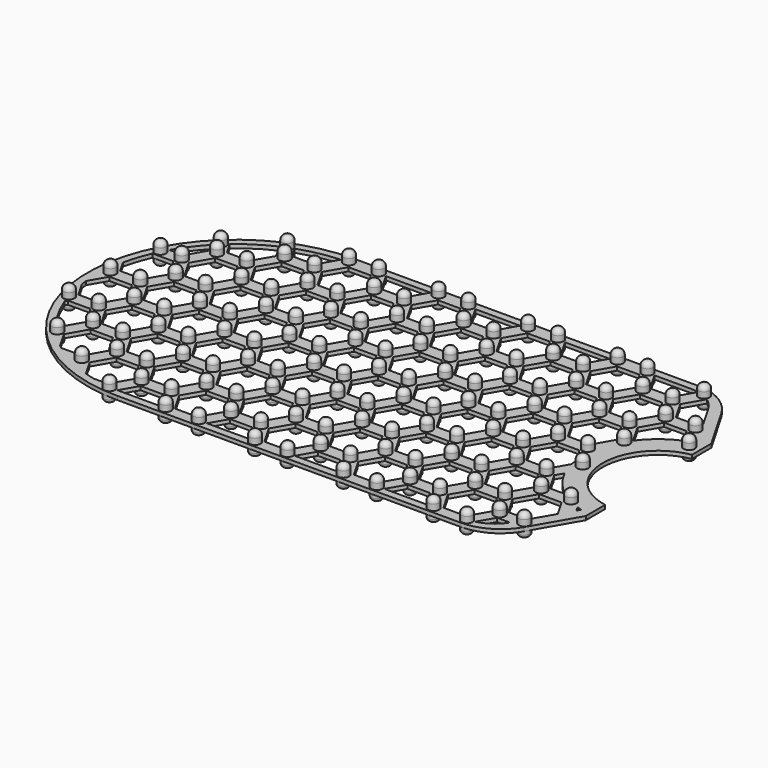
from build123d import *

# Parameters (mm, degrees)
PAD_DEPTH         = 1
SKETCH001_R       = 1.5
PAD001_DEPTH      = 3
PAD001_DEPTH_BACK = 3
FILLET_R          = 1.4
FILLET001_R       = 0.99


with BuildPart() as part:
    # Sketch → Pad (new body)
    with BuildSketch(Plane.XY):
        with BuildLine():
            ThreePointArc((0, 39.75), (-39.75, 0), (0, -39.75))
            Line((0, -39.75), (92, -39.75))
            ThreePointArc((92, -39.75), (98.745759, -37.94379), (103.686443, -33.008479))
            Line((103.686443, -33.008479), (110.61, -21.036592))
            Line((110.61, -14.536592), (110.61, -21.036592))
            ThreePointArc((110.61, 14.536592), (98.36, 0), (110.61, -14.536592))
            Line((110.61, 14.536592), (110.61, 21.036592))
            Line((110.61, 21.036592), (103.686443, 33.008479))
            ThreePointArc((103.686443, 33.008479), (98.745759, 37.94379), (92, 39.75))
            Line((0, 39.75), (92, 39.75))
        make_face()
        Polygon((10.359334, 30.823848), (7.359334, 36.02), (1.359334, 36.02), (-1.640666, 30.823848), (1.359334, 25.627695), (7.359334, 25.627695), align=None, mode=Mode.SUBTRACT)
        Polygon((12.993336, 32.55), (18.993336, 32.55), (21.995557, 37.75), (9.991114, 37.75), align=None, mode=Mode.SUBTRACT)
        Polygon((36.997779, 32.55), (42.997779, 32.55), (46, 37.75), (33.995557, 37.75), align=None, mode=Mode.SUBTRACT)
        Polygon((61.002221, 32.55), (67.002221, 32.55), (70.004443, 37.75), (58, 37.75), align=None, mode=Mode.SUBTRACT)
        with BuildLine():
            Line((85.006664, 32.55), (91.006664, 32.55))
            Line((91.006664, 32.55), (93.898219, 37.558321))
            ThreePointArc((93.898219, 37.558321), (92.953929, 37.701883), (92, 37.75))
            Line((82.004443, 37.75), (92, 37.75))
            Line((85.006664, 32.55), (82.004443, 37.75))
        make_face(mode=Mode.SUBTRACT)
        with BuildLine():
            Line((94.359334, 30.896734), (97.359334, 25.700581))
            Line((97.359334, 25.700581), (103.359334, 25.700581))
            Line((103.359334, 25.700581), (103.902076, 26.640637))
            Line((103.902076, 26.640637), (100.219438, 33.008479))
            ThreePointArc((100.219438, 33.008479), (98.962058, 34.710798), (97.359334, 36.092886))
            Line((94.359334, 30.896734), (97.359334, 36.092886))
        make_face(mode=Mode.SUBTRACT)
        with BuildLine():
            Line((-22.640666, 25.292987), (-16.640666, 25.292987))
            Line((-16.640666, 25.292987), (-13.640666, 30.489139))
            Line((-13.640666, 30.489139), (-15.825176, 34.272822))
            ThreePointArc((-15.825176, 34.272822), (-20.396999, 31.765152), (-24.579652, 28.651409))
            Line((-22.640666, 25.292987), (-24.579652, 28.651409))
        make_face(mode=Mode.SUBTRACT)
        with BuildLine():
            Line((-26, 23.882987), (-29, 18.686834))
            Line((-29, 18.686834), (-32.800377, 18.686834))
            ThreePointArc((-27.27761, 26.095872), (-30.266559, 22.560982), (-32.800377, 18.686834))
            Line((-26, 23.882987), (-27.27761, 26.095872))
        make_face(mode=Mode.SUBTRACT)
        with BuildLine():
            Line((-34.912274, 4.83453), (-28.912274, 4.83453))
            Line((-28.912274, 4.83453), (-25.912274, 10.030682))
            Line((-25.912274, 10.030682), (-28.912274, 15.226834))
            Line((-28.912274, 15.226834), (-34.542814, 15.226834))
            ThreePointArc((-34.542814, 15.226834), (-35.869554, 11.765951), (-36.850502, 8.19164))
            Line((-34.912274, 4.83453), (-36.850502, 8.19164))
        make_face(mode=Mode.SUBTRACT)
        with BuildLine():
            Line((-34.997756, 1.37453), (-28.997756, 1.37453))
            Line((-28.997756, 1.37453), (-25.997756, -3.821623))
            Line((-25.997756, -3.821623), (-28.997756, -9.017775))
            Line((-28.997756, -9.017775), (-34.997756, -9.017775))
            Line((-34.997756, -9.017775), (-37.446635, -4.776193))
            ThreePointArc((-37.617287, -3.16263), (-37.540631, -3.970328), (-37.446635, -4.776193))
            Line((-34.997756, 1.37453), (-37.617287, -3.16263))
        make_face(mode=Mode.SUBTRACT)
        with BuildLine():
            Line((-35.018401, -12.477775), (-29.018401, -12.477775))
            Line((-29.018401, -12.477775), (-26.018401, -17.673928))
            Line((-26.018401, -17.673928), (-29.018401, -22.87008))
            Line((-29.018401, -22.87008), (-30.03368, -22.87008))
            ThreePointArc((-35.393778, -13.127947), (-33.074391, -18.197449), (-30.03368, -22.87008))
            Line((-35.018401, -12.477775), (-35.393778, -13.127947))
        make_face(mode=Mode.SUBTRACT)
        with BuildLine():
            Line((-23.18947, -19.723928), (-17.18947, -19.723928))
            Line((-17.18947, -19.723928), (-14.18947, -24.92008))
            Line((-14.18947, -24.92008), (-17.18947, -30.116233))
            Line((-17.18947, -30.116233), (-22.761262, -30.116233))
            ThreePointArc((-23.537387, -29.513623), (-23.151285, -29.817453), (-22.761262, -30.116233))
            Line((-26.18947, -24.92008), (-23.537387, -29.513623))
            Line((-23.18947, -19.723928), (-26.18947, -24.92008))
        make_face(mode=Mode.SUBTRACT)
        with BuildLine():
            Line((-11.000012, -26.33379), (-5.000012, -26.33379))
            Line((-5.000012, -26.33379), (-2.000012, -31.529942))
            Line((-2.000012, -31.529942), (-5.000012, -36.726095))
            Line((-5.000012, -36.726095), (-8.732495, -36.726095))
            ThreePointArc((-11.432347, -35.97727), (-10.08937, -36.376739), (-8.732495, -36.726095))
            Line((-14.000012, -31.529942), (-11.432347, -35.97727))
            Line((-11.000012, -26.33379), (-14.000012, -31.529942))
        make_face(mode=Mode.SUBTRACT)
        Polygon((57.997325, 16.971543), (54.997325, 22.167695), (48.997325, 22.167695), (45.997325, 16.971543), (48.997325, 11.77539), (54.997325, 11.77539), align=None, mode=Mode.SUBTRACT)
        Polygon((46, 23.893848), (43, 29.09), (37, 29.09), (34, 23.893848), (37, 18.697695), (43, 18.697695), align=None, mode=Mode.SUBTRACT)
        Polygon((70, 23.893848), (67, 29.09), (61, 29.09), (58, 23.893848), (61, 18.697695), (67, 18.697695), align=None, mode=Mode.SUBTRACT)
        Polygon((82.359334, 30.823848), (79.359334, 36.02), (73.359334, 36.02), (70.359334, 30.823848), (73.359334, 25.627695), (79.359334, 25.627695), align=None, mode=Mode.SUBTRACT)
        Polygon((94, 23.893848), (91, 29.09), (85, 29.09), (82, 23.893848), (85, 18.697695), (91, 18.697695), align=None, mode=Mode.SUBTRACT)
        Polygon((58.359334, 30.823848), (55.359334, 36.02), (49.359334, 36.02), (46.359334, 30.823848), (49.359334, 25.627695), (55.359334, 25.627695), align=None, mode=Mode.SUBTRACT)
        Polygon((34.359334, 30.823848), (31.359334, 36.02), (25.359334, 36.02), (22.359334, 30.823848), (25.359334, 25.627695), (31.359334, 25.627695), align=None, mode=Mode.SUBTRACT)
        Polygon((22, 23.893848), (19, 29.09), (13, 29.09), (10, 23.893848), (13, 18.697695), (19, 18.697695), align=None, mode=Mode.SUBTRACT)
        Polygon((9.997325, 16.971543), (6.997325, 22.167695), (0.997325, 22.167695), (-2.002675, 16.971543), (0.997325, 11.77539), (6.997325, 11.77539), align=None, mode=Mode.SUBTRACT)
        Polygon((-2, 23.879277), (-5, 29.075429), (-11, 29.075429), (-14, 23.879277), (-11, 18.683125), (-5, 18.683125), align=None, mode=Mode.SUBTRACT)
        Polygon((-14.002675, 16.636834), (-17.002675, 21.832987), (-23.002675, 21.832987), (-26.002675, 16.636834), (-23.002675, 11.440682), (-17.002675, 11.440682), align=None, mode=Mode.SUBTRACT)
        Polygon((-1.912274, 10.026972), (-4.912274, 15.223125), (-10.912274, 15.223125), (-13.912274, 10.026972), (-10.912274, 4.83082), (-4.912274, 4.83082), align=None, mode=Mode.SUBTRACT)
        Polygon((-14, 2.78453), (-17, 7.980682), (-23, 7.980682), (-26, 2.78453), (-23, -2.411623), (-17, -2.411623), align=None, mode=Mode.SUBTRACT)
        Polygon((-14.112851, -11.067775), (-17.112851, -5.871623), (-23.112851, -5.871623), (-26.112851, -11.067775), (-23.112851, -16.263928), (-17.112851, -16.263928), align=None, mode=Mode.SUBTRACT)
        Polygon((-1.997756, -3.825333), (-4.997756, 1.37082), (-10.997756, 1.37082), (-13.997756, -3.825333), (-10.997756, -9.021485), (-4.997756, -9.021485), align=None, mode=Mode.SUBTRACT)
        Polygon((-2.018401, -17.677638), (-5.018401, -12.481485), (-11.018401, -12.481485), (-14.018401, -17.677638), (-11.018401, -22.87379), (-5.018401, -22.87379), align=None, mode=Mode.SUBTRACT)
        Polygon((9.81053, -24.585372), (6.81053, -19.389219), (0.81053, -19.389219), (-2.18947, -24.585372), (0.81053, -29.781524), (6.81053, -29.781524), align=None, mode=Mode.SUBTRACT)
        with BuildLine():
            Line((7.018852, -33.241524), (1.018852, -33.241524))
            Line((1.018852, -33.241524), (-1.565371, -37.717531))
            ThreePointArc((-1.565371, -37.717531), (-0.782854, -37.741882), (0, -37.75))
            Line((9.621822, -37.75), (0, -37.75))
            Line((7.018852, -33.241524), (9.621822, -37.75))
        make_face(mode=Mode.SUBTRACT)
        Polygon((10, 3.119238), (7, 8.31539), (1, 8.31539), (-2, 3.119238), (1, -2.076915), (7, -2.076915), align=None, mode=Mode.SUBTRACT)
        Polygon((22.087726, 10.041543), (19.087726, 15.237695), (13.087726, 15.237695), (10.087726, 10.041543), (13.087726, 4.84539), (19.087726, 4.84539), align=None, mode=Mode.SUBTRACT)
        Polygon((33.997325, 16.971543), (30.997325, 22.167695), (24.997325, 22.167695), (21.997325, 16.971543), (24.997325, 11.77539), (30.997325, 11.77539), align=None, mode=Mode.SUBTRACT)
        Polygon((9.887149, -10.733067), (6.887149, -5.536915), (0.887149, -5.536915), (-2.112851, -10.733067), (0.887149, -15.929219), (6.887149, -15.929219), align=None, mode=Mode.SUBTRACT)
        Polygon((22.002244, -3.810762), (19.002244, 1.38539), (13.002244, 1.38539), (10.002244, -3.810762), (13.002244, -9.006915), (19.002244, -9.006915), align=None, mode=Mode.SUBTRACT)
        Polygon((21.981599, -17.663067), (18.981599, -12.466915), (12.981599, -12.466915), (9.981599, -17.663067), (12.981599, -22.859219), (18.981599, -22.859219), align=None, mode=Mode.SUBTRACT)
        Polygon((46.087726, 10.041543), (43.087726, 15.237695), (37.087726, 15.237695), (34.087726, 10.041543), (37.087726, 4.84539), (43.087726, 4.84539), align=None, mode=Mode.SUBTRACT)
        Polygon((34, 3.119238), (31, 8.31539), (25, 8.31539), (22, 3.119238), (25, -2.076915), (31, -2.076915), align=None, mode=Mode.SUBTRACT)
        with BuildLine():
            ThreePointArc((-2, 37.696983), (-7.436746, 37.010232), (-12.71678, 35.543579))
            Line((-10.980024, 32.535429), (-12.71678, 35.543579))
            Line((-10.980024, 32.535429), (-4.980024, 32.535429))
            Line((-4.980024, 32.535429), (-2, 37.696983))
        make_face(mode=Mode.SUBTRACT)
        Polygon((45.981599, -17.663067), (42.981599, -12.466915), (36.981599, -12.466915), (33.981599, -17.663067), (36.981599, -22.859219), (42.981599, -22.859219), align=None, mode=Mode.SUBTRACT)
        Polygon((46.002244, -3.810762), (43.002244, 1.38539), (37.002244, 1.38539), (34.002244, -3.810762), (37.002244, -9.006915), (43.002244, -9.006915), align=None, mode=Mode.SUBTRACT)
        Polygon((33.887149, -10.733067), (30.887149, -5.536915), (24.887149, -5.536915), (21.887149, -10.733067), (24.887149, -15.929219), (30.887149, -15.929219), align=None, mode=Mode.SUBTRACT)
        Polygon((33.81053, -24.585372), (30.81053, -19.389219), (24.81053, -19.389219), (21.81053, -24.585372), (24.81053, -29.781524), (30.81053, -29.781524), align=None, mode=Mode.SUBTRACT)
        Polygon((21.999988, -31.515372), (18.999988, -26.319219), (12.999988, -26.319219), (9.999988, -31.515372), (12.999988, -36.711524), (18.999988, -36.711524), align=None, mode=Mode.SUBTRACT)
        Polygon((45.999988, -31.515372), (42.999988, -26.319219), (36.999988, -26.319219), (33.999988, -31.515372), (36.999988, -36.711524), (42.999988, -36.711524), align=None, mode=Mode.SUBTRACT)
        Polygon((25.018852, -33.241524), (31.018852, -33.241524), (33.621822, -37.75), (22.415883, -37.75), align=None, mode=Mode.SUBTRACT)
        Polygon((58, 3.119238), (55, 8.31539), (49, 8.31539), (46, 3.119238), (49, -2.076915), (55, -2.076915), align=None, mode=Mode.SUBTRACT)
        Polygon((57.887149, -10.733067), (54.887149, -5.536915), (48.887149, -5.536915), (45.887149, -10.733067), (48.887149, -15.929219), (54.887149, -15.929219), align=None, mode=Mode.SUBTRACT)
        Polygon((57.81053, -24.585372), (54.81053, -19.389219), (48.81053, -19.389219), (45.81053, -24.585372), (48.81053, -29.781524), (54.81053, -29.781524), align=None, mode=Mode.SUBTRACT)
        Polygon((70.087726, 10.041543), (67.087726, 15.237695), (61.087726, 15.237695), (58.087726, 10.041543), (61.087726, 4.84539), (67.087726, 4.84539), align=None, mode=Mode.SUBTRACT)
        Polygon((70.002244, -3.810762), (67.002244, 1.38539), (61.002244, 1.38539), (58.002244, -3.810762), (61.002244, -9.006915), (67.002244, -9.006915), align=None, mode=Mode.SUBTRACT)
        Polygon((69.981599, -17.663067), (66.981599, -12.466915), (60.981599, -12.466915), (57.981599, -17.663067), (60.981599, -22.859219), (66.981599, -22.859219), align=None, mode=Mode.SUBTRACT)
        Polygon((69.999988, -31.515372), (66.999988, -26.319219), (60.999988, -26.319219), (57.999988, -31.515372), (60.999988, -36.711524), (66.999988, -36.711524), align=None, mode=Mode.SUBTRACT)
        Polygon((81.997325, 16.971543), (78.997325, 22.167695), (72.997325, 22.167695), (69.997325, 16.971543), (72.997325, 11.77539), (78.997325, 11.77539), align=None, mode=Mode.SUBTRACT)
        Polygon((82, 3.119238), (79, 8.31539), (73, 8.31539), (70, 3.119238), (73, -2.076915), (79, -2.076915), align=None, mode=Mode.SUBTRACT)
        Polygon((81.887149, -10.733067), (78.887149, -5.536915), (72.887149, -5.536915), (69.887149, -10.733067), (72.887149, -15.929219), (78.887149, -15.929219), align=None, mode=Mode.SUBTRACT)
        Polygon((81.81053, -24.585372), (78.81053, -19.389219), (72.81053, -19.389219), (69.81053, -24.585372), (72.81053, -29.781524), (78.81053, -29.781524), align=None, mode=Mode.SUBTRACT)
        Polygon((94.087726, 10.041543), (91.087726, 15.237695), (85.087726, 15.237695), (82.087726, 10.041543), (85.087726, 4.84539), (91.087726, 4.84539), align=None, mode=Mode.SUBTRACT)
        Polygon((93.981599, -17.661543), (90.981599, -12.46539), (84.981599, -12.46539), (81.981599, -17.661543), (84.981599, -22.857695), (90.981599, -22.857695), align=None, mode=Mode.SUBTRACT)
        Polygon((93.999988, -31.513848), (90.999988, -26.317695), (84.999988, -26.317695), (81.999988, -31.513848), (84.999988, -36.71), (90.999988, -36.71), align=None, mode=Mode.SUBTRACT)
        Polygon((48.60297, -33.241524), (54.60297, -33.241524), (57.205939, -37.75), (46, -37.75), align=None, mode=Mode.SUBTRACT)
        Polygon((72.60297, -33.241524), (78.60297, -33.241524), (81.205939, -37.75), (70, -37.75), align=None, mode=Mode.SUBTRACT)
        Polygon((96.81053, -19.391543), (102.81053, -19.391543), (105.450231, -23.963639), (102.0843, -29.783848), (96.81053, -29.783848), (93.81053, -24.587695), align=None, mode=Mode.SUBTRACT)
        with BuildLine():
            Line((96.60297, -33.243848), (100.078747, -33.243848))
            ThreePointArc((94.142758, -37.505059), (97.537323, -35.968679), (100.078747, -33.243848))
            Line((96.60297, -33.243848), (94.142758, -37.505059))
        make_face(mode=Mode.SUBTRACT)
        with BuildLine():
            Line((85.002244, 1.38539), (91.002244, 1.38539))
            Line((91.002244, 1.38539), (93.27291, -2.547519))
            ThreePointArc((93.27291, -2.547519), (93.421575, -3.516523), (93.617546, -4.477078))
            Line((91.002244, -9.006915), (93.617546, -4.477078))
            Line((85.002244, -9.006915), (91.002244, -9.006915))
            Line((82.002244, -3.810762), (85.002244, -9.006915))
            Line((85.002244, 1.38539), (82.002244, -3.810762))
        make_face(mode=Mode.SUBTRACT)
        with BuildLine():
            Line((93.997325, 17.044429), (96.997325, 22.240581))
            Line((96.997325, 22.240581), (102.997325, 22.240581))
            Line((102.997325, 22.240581), (105.225958, 18.380475))
            ThreePointArc((105.225958, 18.380475), (100.675047, 15.664353), (96.997322, 11.848275))
            Line((93.997325, 17.044429), (96.997322, 11.848275))
        make_face(mode=Mode.SUBTRACT)
        with BuildLine():
            Line((106.744971, -18.960127), (107.543742, -20.343639))
            Line((107.543742, -20.343639), (108.109786, -19.364862))
            ThreePointArc((106.744971, -18.960127), (107.423776, -19.174641), (108.109786, -19.364862))
        make_face(mode=Mode.SUBTRACT)
        with BuildLine():
            Line((93.887149, -10.735389), (96.887147, -15.931543))
            Line((96.887147, -15.931543), (101.019262, -15.931543))
            ThreePointArc((95.0836, -8.663076), (97.619094, -12.650369), (101.019262, -15.931543))
            Line((93.887149, -10.735389), (95.0836, -8.663076))
        make_face(mode=Mode.SUBTRACT)
    extrude(amount=PAD_DEPTH)

    # Sketch001 (on Face402 of Pad) → Pad001 (join, two sides)
    with BuildSketch(Plane.XY.offset(1)) as pad001_sk:
        with Locations((12.35, 30.88)):
            Circle(SKETCH001_R)
        with Locations((24, 24)):
            Circle(SKETCH001_R)
        with Locations((20.35, 30.88)):
            Circle(SKETCH001_R)
        with Locations((32, 24)):
            Circle(SKETCH001_R)
        with Locations((8, 24)):
            Circle(SKETCH001_R)
        with Locations((0, 24)):
            Circle(SKETCH001_R)
        with Locations((-3.65, 30.88)):
            Circle(SKETCH001_R)
        with Locations((8, 37.9)):
            Circle(SKETCH001_R)
        with Locations((0, 37.9)):
            Circle(SKETCH001_R)
        with Locations((24, 37.9)):
            Circle(SKETCH001_R)
        with Locations((32, 37.9)):
            Circle(SKETCH001_R)
        with Locations((36.35, 30.88)):
            Circle(SKETCH001_R)
        with Locations((19.9, 16.98)):
            Circle(SKETCH001_R)
        with Locations((11.9, 16.98)):
            Circle(SKETCH001_R)
        with Locations((44.35, 30.88)):
            Circle(SKETCH001_R)
        with Locations((48, 37.9)):
            Circle(SKETCH001_R)
        with Locations((56, 37.9)):
            Circle(SKETCH001_R)
        with Locations((48, 24)):
            Circle(SKETCH001_R)
        with Locations((56, 24)):
            Circle(SKETCH001_R)
        with Locations((35.9, 16.98)):
            Circle(SKETCH001_R)
        with Locations((43.9, 16.98)):
            Circle(SKETCH001_R)
        with Locations((48, 10.1)):
            Circle(SKETCH001_R)
        with Locations((56, 10.1)):
            Circle(SKETCH001_R)
        with Locations((59.9, 16.98)):
            Circle(SKETCH001_R)
        with Locations((60.35, 30.88)):
            Circle(SKETCH001_R)
        with Locations((68.35, 30.88)):
            Circle(SKETCH001_R)
        with Locations((72, 37.9)):
            Circle(SKETCH001_R)
        with Locations((72, 24)):
            Circle(SKETCH001_R)
        with Locations((67.9, 16.98)):
            Circle(SKETCH001_R)
        with Locations((72, 10.1)):
            Circle(SKETCH001_R)
        with Locations((32, 10.1)):
            Circle(SKETCH001_R)
        with Locations((24, 10.1)):
            Circle(SKETCH001_R)
        with Locations((80, 37.9)):
            Circle(SKETCH001_R)
        with Locations((84.35, 30.88)):
            Circle(SKETCH001_R)
        with Locations((95.79, 37.13)):
            Circle(SKETCH001_R)
        with Locations((104, 24)):
            Circle(SKETCH001_R)
        with Locations((96, 24)):
            Circle(SKETCH001_R)
        with Locations((80, 24)):
            Circle(SKETCH001_R)
        with Locations((83.9, 16.98)):
            Circle(SKETCH001_R)
        with Locations((91.9, 16.98)):
            Circle(SKETCH001_R)
        with Locations((80, 10.1)):
            Circle(SKETCH001_R)
        with Locations((83.9, 3.08)):
            Circle(SKETCH001_R)
        with Locations((96, 10.1)):
            Circle(SKETCH001_R)
        with Locations((91.9, 3.08)):
            Circle(SKETCH001_R)
        with Locations((107.9, 16.98)):
            Circle(SKETCH001_R)
        with Locations((96, -3.8)):
            Circle(SKETCH001_R)
        with Locations((104, -17.7)):
            Circle(SKETCH001_R)
        with Locations((96, -17.7)):
            Circle(SKETCH001_R)
        with Locations((91.9, -10.82)):
            Circle(SKETCH001_R)
        with Locations((83.9, -10.82)):
            Circle(SKETCH001_R)
        with Locations((80, -3.8)):
            Circle(SKETCH001_R)
        with Locations((72, -3.8)):
            Circle(SKETCH001_R)
        with Locations((67.9, 3.08)):
            Circle(SKETCH001_R)
        with Locations((59.9, 3.08)):
            Circle(SKETCH001_R)
        with Locations((56, -3.8)):
            Circle(SKETCH001_R)
        with Locations((48, -3.8)):
            Circle(SKETCH001_R)
        with Locations((43.9, 3.08)):
            Circle(SKETCH001_R)
        with Locations((35.9, 3.08)):
            Circle(SKETCH001_R)
        with Locations((19.9, 3.08)):
            Circle(SKETCH001_R)
        with Locations((11.9, 3.08)):
            Circle(SKETCH001_R)
        with Locations((8, -3.8)):
            Circle(SKETCH001_R)
        with Locations((11.9, -10.82)):
            Circle(SKETCH001_R)
        with Locations((19.9, -10.82)):
            Circle(SKETCH001_R)
        with Locations((24, -3.8)):
            Circle(SKETCH001_R)
        with Locations((32, -3.8)):
            Circle(SKETCH001_R)
        with Locations((35.9, -10.82)):
            Circle(SKETCH001_R)
        with Locations((43.9, -10.82)):
            Circle(SKETCH001_R)
        with Locations((59.9, -10.82)):
            Circle(SKETCH001_R)
        with Locations((67.9, -10.82)):
            Circle(SKETCH001_R)
        with Locations((72, -17.7)):
            Circle(SKETCH001_R)
        with Locations((80, -17.7)):
            Circle(SKETCH001_R)
        with Locations((56, -17.7)):
            Circle(SKETCH001_R)
        with Locations((48, -17.7)):
            Circle(SKETCH001_R)
        with Locations((32, -17.7)):
            Circle(SKETCH001_R)
        with Locations((24, -17.7)):
            Circle(SKETCH001_R)
        with Locations((8, -17.7)):
            Circle(SKETCH001_R)
        with Locations((11.9, -24.72)):
            Circle(SKETCH001_R)
        with Locations((19.9, -24.72)):
            Circle(SKETCH001_R)
        with Locations((35.9, -24.72)):
            Circle(SKETCH001_R)
        with Locations((43.9, -24.72)):
            Circle(SKETCH001_R)
        with Locations((59.9, -24.72)):
            Circle(SKETCH001_R)
        with Locations((67.9, -24.72)):
            Circle(SKETCH001_R)
        with Locations((83.9, -24.72)):
            Circle(SKETCH001_R)
        with Locations((91.9, -24.72)):
            Circle(SKETCH001_R)
        with Locations((96, -31.6)):
            Circle(SKETCH001_R)
        with Locations((102.6, -31.6)):
            Circle(SKETCH001_R)
        with Locations((80, -31.6)):
            Circle(SKETCH001_R)
        with Locations((72, -31.6)):
            Circle(SKETCH001_R)
        with Locations((68.18, -37.99)):
            Circle(SKETCH001_R)
        with Locations((59.25, -37.99)):
            Circle(SKETCH001_R)
        with Locations((56, -31.6)):
            Circle(SKETCH001_R)
        with Locations((48, -31.6)):
            Circle(SKETCH001_R)
        with Locations((44.24, -37.99)):
            Circle(SKETCH001_R)
        with Locations((35.52, -37.99)):
            Circle(SKETCH001_R)
        with Locations((32, -31.6)):
            Circle(SKETCH001_R)
        with Locations((24, -31.6)):
            Circle(SKETCH001_R)
        with Locations((20.44, -37.99)):
            Circle(SKETCH001_R)
        with Locations((8, -31.6)):
            Circle(SKETCH001_R)
        with Locations((11.56, -37.99)):
            Circle(SKETCH001_R)
        with Locations((-11.65, 30.88)):
            Circle(SKETCH001_R)
        with Locations((-28.1, 16.98)):
            Circle(SKETCH001_R)
        with Locations((-12.1, 16.98)):
            Circle(SKETCH001_R)
        with Locations((-4.1, 16.98)):
            Circle(SKETCH001_R)
        with Locations((0, 10.1)):
            Circle(SKETCH001_R)
        with Locations((8, 10.1)):
            Circle(SKETCH001_R)
        with Locations((-4.1, 3.08)):
            Circle(SKETCH001_R)
        with Locations((-12.1, 3.08)):
            Circle(SKETCH001_R)
        with Locations((-28.1, 3.08)):
            Circle(SKETCH001_R)
        with Locations((-36.1, 3.08)):
            Circle(SKETCH001_R)
        with Locations((-28.1, -10.82)):
            Circle(SKETCH001_R)
        with Locations((-36.1, -10.82)):
            Circle(SKETCH001_R)
        with Locations((-24, -4.03)):
            Circle(SKETCH001_R)
        with Locations((-16, -4.03)):
            Circle(SKETCH001_R)
        with Locations((0, -3.8)):
            Circle(SKETCH001_R)
        with Locations((-4.1, -10.82)):
            Circle(SKETCH001_R)
        with Locations((-12.1, -10.82)):
            Circle(SKETCH001_R)
        with Locations((-16, -17.88)):
            Circle(SKETCH001_R)
        with Locations((-24, -17.88)):
            Circle(SKETCH001_R)
        with Locations((-28.1, -24.72)):
            Circle(SKETCH001_R)
        with Locations((-16, -31.6)):
            Circle(SKETCH001_R)
        with Locations((-12.1, -24.72)):
            Circle(SKETCH001_R)
        with Locations((-4.1, -24.72)):
            Circle(SKETCH001_R)
        with Locations((0, -31.6)):
            Circle(SKETCH001_R)
        with Locations((-3.5, -37.99)):
            Circle(SKETCH001_R)
        with Locations((-16, 23.66)):
            Circle(SKETCH001_R)
        with Locations((-24, 23.66)):
            Circle(SKETCH001_R)
        with Locations((-16, 9.81)):
            Circle(SKETCH001_R)
        with Locations((-24, 9.81)):
            Circle(SKETCH001_R)
        with Locations((0, -17.7)):
            Circle(SKETCH001_R)
        with Locations((92.35, 30.88)):
            Circle(SKETCH001_R)
        with Locations((92.35, -37.99)):
            Circle(SKETCH001_R)
        with Locations((83.37, -37.99)):
            Circle(SKETCH001_R)
        with Locations((-26.03, 27.49)):
            Circle(SKETCH001_R)
        with Locations((-14.36, 35.21)):
            Circle(SKETCH001_R)
        with Locations((-33.81, 16.98)):
            Circle(SKETCH001_R)
    extrude(amount=PAD001_DEPTH)
    extrude(pad001_sk.sketch, amount=-PAD001_DEPTH_BACK)

    # Fillet
    fillet_edges = [part.edges().sort_by_distance(p)[0] for p in [
        (-27.53, 27.49, 4),
        (-35.31, 16.98, 4),
        (-29.6, 16.98, 4),
        (-25.5, 23.66, 4),
        (-17.5, 23.66, 4),
        (-15.86, 35.21, 4),
        (-13.15, 30.88, 4),
        (-13.6, 16.98, 4),
        (-25.5, 9.81, 4),
        (-17.5, 9.81, 4),
        (-29.6, 3.08, 4),
        (-13.6, 3.08, 4),
        (-37.6, 3.08, 4),
        (-37.6, -10.82, 4),
        (-25.5, -4.03, 4),
        (-29.6, -10.82, 4),
        (-25.5, -17.88, 4),
        (-29.6, -24.72, 4),
        (-17.5, -31.6, 4),
        (-13.6, -24.72, 4),
        (-17.5, -17.88, 4),
        (-13.6, -10.82, 4),
        (-17.5, -4.03, 4),
        (-1.5, 37.9, 4),
        (6.5, 37.9, 4),
        (-5.15, 30.88, 4),
        (10.85, 30.88, 4),
        (6.5, 24, 4),
        (-1.5, 24, 4),
        (-5.6, 16.98, 4),
        (10.4, 16.98, 4),
        (6.5, 10.1, 4),
        (-1.5, 10.1, 4),
        (-5.6, 3.08, 4),
        (10.4, 3.08, 4),
        (6.5, -3.8, 4),
        (-1.5, -3.8, 4),
        (-5.6, -10.82, 4),
        (10.4, -10.82, 4),
        (6.5, -17.7, 4),
        (-1.5, -17.7, 4),
        (-5.6, -24.72, 4),
        (10.4, -24.72, 4),
        (6.5, -31.6, 4),
        (-1.5, -31.6, 4),
        (-5, -37.99, 4),
        (10.06, -37.99, 4),
        (18.94, -37.99, 4),
        (22.5, -31.6, 4),
        (18.4, -24.72, 4),
        (22.5, -17.7, 4),
        (18.4, -10.82, 4),
        (22.5, -3.8, 4),
        (18.4, 3.08, 4),
        (22.5, 10.1, 4),
        (18.4, 16.98, 4),
        (22.5, 24, 4),
        (18.85, 30.88, 4),
        (22.5, 37.9, 4),
        (30.5, 37.9, 4),
        (34.85, 30.88, 4),
        (30.5, 24, 4),
        (34.4, 16.98, 4),
        (30.5, 10.1, 4),
        (34.4, 3.08, 4),
        (30.5, -3.8, 4),
        (34.4, -10.82, 4),
        (30.5, -17.7, 4),
        (34.4, -24.72, 4),
        (30.5, -31.6, 4),
        (34.02, -37.99, 4),
        (42.74, -37.99, 4),
        (46.5, -31.6, 4),
        (42.4, -24.72, 4),
        (46.5, -17.7, 4),
        (42.4, -10.82, 4),
        (46.5, -3.8, 4),
        (42.4, 3.08, 4),
        (46.5, 10.1, 4),
        (42.4, 16.98, 4),
        (46.5, 24, 4),
        (42.85, 30.88, 4),
        (46.5, 37.9, 4),
        (54.5, 37.9, 4),
        (58.85, 30.88, 4),
        (54.5, 24, 4),
        (58.4, 16.98, 4),
        (54.5, 10.1, 4),
        (58.4, 3.08, 4),
        (54.5, -3.8, 4),
        (58.4, -10.82, 4),
        (54.5, -17.7, 4),
        (58.4, -24.72, 4),
        (54.5, -31.6, 4),
        (57.75, -37.99, 4),
        (66.68, -37.99, 4),
        (70.5, -31.6, 4),
        (66.4, -24.72, 4),
        (70.5, -17.7, 4),
        (66.4, -10.82, 4),
        (70.5, -3.8, 4),
        (66.4, 3.08, 4),
        (70.5, 10.1, 4),
        (66.4, 16.98, 4),
        (70.5, 24, 4),
        (66.85, 30.88, 4),
        (70.5, 37.9, 4),
        (78.5, 37.9, 4),
        (82.85, 30.88, 4),
        (78.5, 24, 4),
        (82.4, 16.98, 4),
        (78.5, 10.1, 4),
        (82.4, 3.08, 4),
        (78.5, -3.8, 4),
        (82.4, -10.82, 4),
        (78.5, -17.7, 4),
        (82.4, -24.72, 4),
        (78.5, -31.6, 4),
        (81.87, -37.99, 4),
        (90.85, -37.99, 4),
        (94.5, -31.6, 4),
        (90.4, -24.72, 4),
        (101.1, -31.6, 4),
        (102.5, -17.7, 4),
        (94.5, -17.7, 4),
        (90.4, -10.82, 4),
        (94.5, -3.8, 4),
        (90.4, 3.08, 4),
        (94.5, 10.1, 4),
        (106.4, 16.98, 4),
        (90.4, 16.98, 4),
        (94.5, 24, 4),
        (102.5, 24, 4),
        (90.85, 30.88, 4),
        (94.29, 37.13, 4),
    ]]
    fillet(fillet_edges, radius=FILLET_R)

    # Fillet001
    fillet001_edges = [part.edges().sort_by_distance(p)[0] for p in [
        (-17.5, -31.6, -2),
        (-29.6, -24.72, -2),
        (-25.5, -17.88, -2),
        (-37.6, -10.82, -2),
        (-29.6, -10.82, -2),
        (-25.5, -4.03, -2),
        (-29.6, 3.08, -2),
        (-37.6, 3.08, -2),
        (-35.31, 16.98, -2),
        (-25.5, 23.66, -2),
        (-27.53, 27.49, -2),
        (-29.6, 16.98, -2),
        (-25.5, 9.81, -2),
        (-13.6, -24.72, -2),
        (-17.5, -17.88, -2),
        (-13.6, -10.82, -2),
        (-17.5, -4.03, -2),
        (-13.6, 3.08, -2),
        (-17.5, 9.81, -2),
        (-13.6, 16.98, -2),
        (-17.5, 23.66, -2),
        (-13.15, 30.88, -2),
        (-15.86, 35.21, -2),
        (-1.5, 37.9, -2),
        (-5.15, 30.88, -2),
        (-1.5, 24, -2),
        (-5.6, 16.98, -2),
        (-1.5, 10.1, -2),
        (-5.6, 3.08, -2),
        (-1.5, -3.8, -2),
        (-5.6, -10.82, -2),
        (-1.5, -17.7, -2),
        (-5.6, -24.72, -2),
        (-1.5, -31.6, -2),
        (-5, -37.99, -2),
        (10.06, -37.99, -2),
        (6.5, -31.6, -2),
        (10.4, -24.72, -2),
        (6.5, -17.7, -2),
        (10.4, -10.82, -2),
        (6.5, -3.8, -2),
        (10.4, 3.08, -2),
        (6.5, 10.1, -2),
        (10.4, 16.98, -2),
        (6.5, 24, -2),
        (10.85, 30.88, -2),
        (6.5, 37.9, -2),
        (22.5, 37.9, -2),
        (18.85, 30.88, -2),
        (22.5, 24, -2),
        (18.4, 16.98, -2),
        (22.5, 10.1, -2),
        (18.4, 3.08, -2),
        (22.5, -3.8, -2),
        (18.4, -10.82, -2),
        (22.5, -17.7, -2),
        (18.4, -24.72, -2),
        (22.5, -31.6, -2),
        (18.94, -37.99, -2),
        (34.02, -37.99, -2),
        (30.5, -31.6, -2),
        (34.4, -24.72, -2),
        (30.5, -17.7, -2),
        (34.4, -10.82, -2),
        (30.5, -3.8, -2),
        (34.4, 3.08, -2),
        (30.5, 10.1, -2),
        (30.5, 24, -2),
        (34.4, 16.98, -2),
        (34.85, 30.88, -2),
        (30.5, 37.9, -2),
        (46.5, 37.9, -2),
        (42.85, 30.88, -2),
        (46.5, 24, -2),
        (42.4, 16.98, -2),
        (46.5, 10.1, -2),
        (42.4, 3.08, -2),
        (46.5, -3.8, -2),
        (42.4, -10.82, -2),
        (46.5, -17.7, -2),
        (42.4, -24.72, -2),
        (46.5, -31.6, -2),
        (42.74, -37.99, -2),
        (57.75, -37.99, -2),
        (54.5, -31.6, -2),
        (58.4, -24.72, -2),
        (54.5, -17.7, -2),
        (58.4, -10.82, -2),
        (54.5, -3.8, -2),
        (58.4, 3.08, -2),
        (54.5, 10.1, -2),
        (58.4, 16.98, -2),
        (54.5, 24, -2),
        (58.85, 30.88, -2),
        (54.5, 37.9, -2),
        (70.5, 37.9, -2),
        (66.85, 30.88, -2),
        (70.5, 24, -2),
        (66.4, 16.98, -2),
        (70.5, 10.1, -2),
        (66.4, 3.08, -2),
        (70.5, -3.8, -2),
        (66.4, -10.82, -2),
        (70.5, -17.7, -2),
        (66.4, -24.72, -2),
        (70.5, -31.6, -2),
        (66.68, -37.99, -2),
        (81.87, -37.99, -2),
        (78.5, -31.6, -2),
        (82.4, -24.72, -2),
        (78.5, -17.7, -2),
        (82.4, -10.82, -2),
        (78.5, -3.8, -2),
        (82.4, 3.08, -2),
        (78.5, 10.1, -2),
        (82.4, 16.98, -2),
        (78.5, 24, -2),
        (82.85, 30.88, -2),
        (78.5, 37.9, -2),
        (94.29, 37.13, -2),
        (90.85, 30.88, -2),
        (94.5, 24, -2),
        (90.4, 16.98, -2),
        (94.5, 10.1, -2),
        (90.4, 3.08, -2),
        (94.5, -3.8, -2),
        (90.4, -10.82, -2),
        (94.5, -17.7, -2),
        (90.4, -24.72, -2),
        (94.5, -31.6, -2),
        (90.85, -37.99, -2),
        (101.1, -31.6, -2),
        (102.5, -17.7, -2),
        (106.4, 16.98, -2),
        (102.5, 24, -2),
    ]]
    fillet(fillet001_edges, radius=FILLET001_R)


solid = part.part
